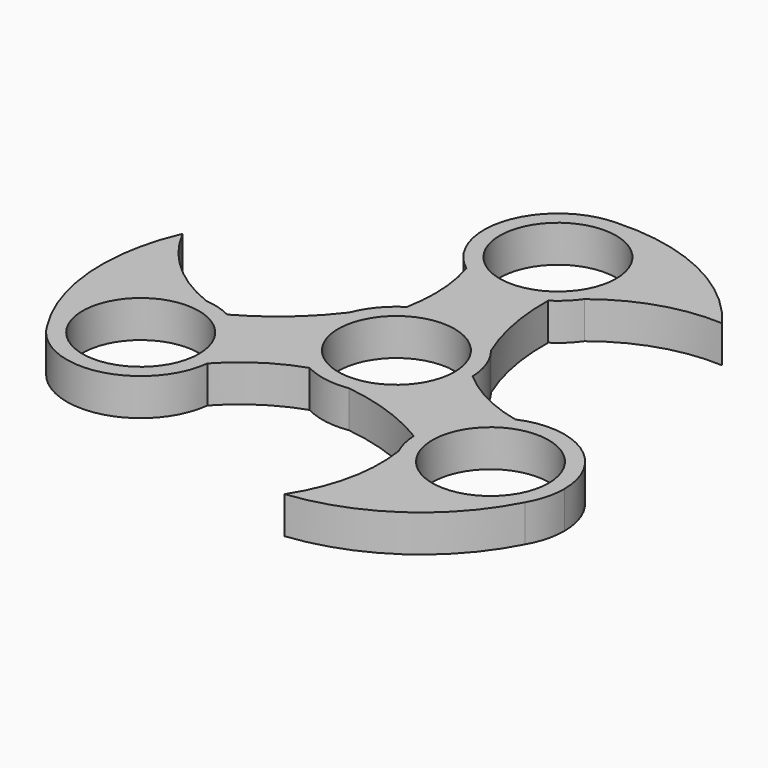
from build123d import *

# Parameters (mm, degrees)
F0_R     = 10.9982
F1_DEPTH = 7.000011


with BuildPart() as f1:
    # F0 (on Top) → F1 (new body)
    with BuildSketch(Plane.XY):
        with BuildLine():
            ThreePointArc((2.088246, -6.887012), (10.590885, -2.184077), (13.97, 6.92603))
            ThreePointArc((13.97, 6.92603), (13.967218, 7.204808), (13.958874, 7.483476))
            ThreePointArc((13.958874, 7.483476), (13.090268, 11.805146), (10.918322, 15.641025))
            ThreePointArc((10.918322, 15.641025), (2.319695, 20.702093), (-7.462199, 18.736046))
            ThreePointArc((-7.462199, 18.736046), (-10.770573, 15.822976), (-13.006568, 12.024077))
            ThreePointArc((-13.006568, 12.024077), (-13.090268, 2.046913), (-6.496674, -5.441432))
            ThreePointArc((-6.496674, -5.441432), (-2.319695, -6.850033), (2.088246, -6.887012))
        make_face()
        with Locations((0, 6.92603)):
            Circle(F0_R, mode=Mode.SUBTRACT)
        with BuildLine():
            ThreePointArc((13.958874, 7.483476), (13.967218, 7.204808), (13.97, 6.92603))
            ThreePointArc((13.97, 6.92603), (10.590885, -2.184077), (2.088246, -6.887012))
            ThreePointArc((2.088246, -6.887012), (10.903349, -8.961172), (19.09199, -12.828255))
            ThreePointArc((19.09199, -12.828255), (21.183867, -4.773264), (27.485263, 0.662841))
            ThreePointArc((27.485263, 0.662841), (20.291579, 3.219431), (13.958874, 7.483476))
        make_face()
        with BuildLine():
            ThreePointArc((-7.462199, 18.736046), (2.319695, 20.702093), (10.918322, 15.641025))
            ThreePointArc((10.918322, 15.641025), (8.307046, 24.312208), (7.561717, 33.337321))
            ThreePointArc((7.561717, 33.337321), (-0.460048, 31.121444), (-8.318551, 33.86056))
            ThreePointArc((-8.318551, 33.86056), (-6.935781, 26.352352), (-7.462199, 18.736046))
        make_face()
        with BuildLine():
            ThreePointArc((47.015656, -12.152889), (40.70993, -0.473), (27.485263, 0.662841))
            ThreePointArc((27.485263, 0.662841), (21.183867, -4.773264), (19.09199, -12.828255))
            ThreePointArc((19.09199, -12.828255), (19.843858, -15.396303), (20.367595, -18.020398))
            ThreePointArc((20.367595, -18.020398), (32.416208, -26.108701), (45.144031, -19.137889))
            ThreePointArc((45.144031, -19.137889), (46.53964, -15.768591), (47.015656, -12.152889))
        make_face()
        with Locations((33.045656, -12.152889)):
            Circle(F0_R, mode=Mode.SUBTRACT)
        with BuildLine():
            ThreePointArc((-19.166712, -13.745312), (-13.355798, -8.793694), (-6.496674, -5.441432))
            ThreePointArc((-6.496674, -5.441432), (-13.090268, 2.046913), (-13.006568, 12.024077))
            ThreePointArc((-13.006568, 12.024077), (-19.210395, 5.427054), (-26.653708, 0.269023))
            ThreePointArc((-26.653708, 0.269023), (-21.119709, -4.877403), (-19.075656, -12.152889))
            ThreePointArc((-19.075656, -12.152889), (-19.098439, -12.950401), (-19.166712, -13.745312))
        make_face()
        with BuildLine():
            ThreePointArc((20.367595, -18.020398), (19.843858, -15.396303), (19.09199, -12.828255))
            ThreePointArc((19.09199, -12.828255), (19.479087, -15.48592), (20.367595, -18.020398))
        make_face()
        with BuildLine():
            ThreePointArc((11.420443, 37.038098), (9.409778, 35.272481), (7.561717, 33.337321))
            ThreePointArc((7.561717, 33.337321), (9.669774, 35.001389), (11.420443, 37.038098))
        make_face()
        with BuildLine():
            ThreePointArc((-8.318551, 33.86056), (-0.460048, 31.121444), (7.561717, 33.337321))
            ThreePointArc((7.561717, 33.337321), (9.409778, 35.272481), (11.420443, 37.038098))
            ThreePointArc((11.420443, 37.038098), (13.317366, 40.863836), (13.97, 45.083867))
            ThreePointArc((13.97, 45.083867), (9.878282, 54.962148), (0, 59.053867))
            ThreePointArc((0, 59.053867), (-13.265566, 49.46401), (-8.318551, 33.86056))
        make_face()
        with Locations((0, 45.083867)):
            Circle(F0_R, mode=Mode.SUBTRACT)
        with BuildLine():
            ThreePointArc((-45.144031, -19.137889), (-30.206188, -25.831277), (-19.166712, -13.745312))
            ThreePointArc((-19.166712, -13.745312), (-19.098439, -12.950401), (-19.075656, -12.152889))
            ThreePointArc((-19.075656, -12.152889), (-21.119709, -4.877403), (-26.653708, 0.269023))
            ThreePointArc((-26.653708, 0.269023), (-29.253636, 0.901911), (-31.788038, 1.760389))
            ThreePointArc((-31.788038, 1.760389), (-44.81702, -4.629864), (-45.144031, -19.137889))
        make_face()
        with Locations((-33.045656, -12.152889)):
            Circle(F0_R, mode=Mode.SUBTRACT)
        with BuildLine():
            ThreePointArc((45.144031, -19.137889), (32.416208, -26.108701), (20.367595, -18.020398))
            ThreePointArc((20.367595, -18.020398), (20.047579, -29.054393), (15.81854, -39.250799))
            ThreePointArc((15.81854, -39.250799), (33.010768, -32.882439), (45.144031, -19.137889))
        make_face()
        with BuildLine():
            ThreePointArc((13.97, 45.083867), (13.317366, 40.863836), (11.420443, 37.038098))
            ThreePointArc((11.420443, 37.038098), (21.136171, 42.277954), (32.081037, 43.713701))
            ThreePointArc((32.081037, 43.713701), (17.969761, 55.418428), (0, 59.053867))
            ThreePointArc((0, 59.053867), (9.878282, 54.962148), (13.97, 45.083867))
        make_face()
        with BuildLine():
            ThreePointArc((-31.788038, 1.760389), (-29.253636, 0.901911), (-26.653708, 0.269023))
            ThreePointArc((-26.653708, 0.269023), (-29.148861, 1.262621), (-31.788038, 1.760389))
        make_face()
        with BuildLine():
            ThreePointArc((-47.899577, 16.315187), (-50.980529, -1.7579), (-45.144031, -19.137889))
            ThreePointArc((-45.144031, -19.137889), (-44.81702, -4.629864), (-31.788038, 1.760389))
            ThreePointArc((-31.788038, 1.760389), (-41.18375, 7.554529), (-47.899577, 16.315187))
        make_face()
    extrude(amount=-F1_DEPTH)


solid = f1.part
